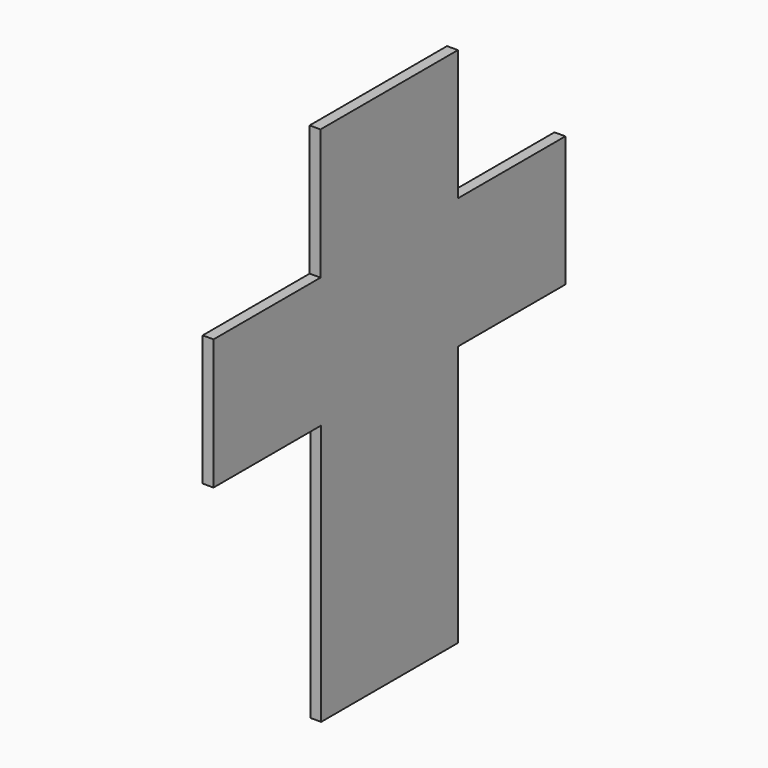
from build123d import *

# Parameters (mm, degrees)
F0_W     = 49.918672
F0_H     = 38.1
F0_W_2   = 39.216516
F0_W_3   = 50.153859
F0_W_4   = 39.040736
F1_DEPTH = 3.175


with BuildPart() as f1:
    # F0 (on Right) → F1 (new body)
    with BuildSketch(Plane.YZ):
        with Locations((-24.959336, -21.051571)):
            Rectangle(F0_W, F0_H)
        Polygon((-49.918672, -2.001571), (0, -2.001571), (0, 36.098429), (-50.153859, 36.098429), (-50.153859, -2.001571), align=None)
        with Locations((19.608258, 17.048429)):
            Rectangle(F0_W_2, F0_H)
        with Locations((-24.959336, -59.151571)):
            Rectangle(F0_W, F0_H)
        with Locations((-25.076929, 55.148429)):
            Rectangle(F0_W_3, F0_H)
        with Locations((-69.674227, 17.048429)):
            Rectangle(F0_W_4, F0_H)
    extrude(amount=F1_DEPTH)


solid = f1.part
